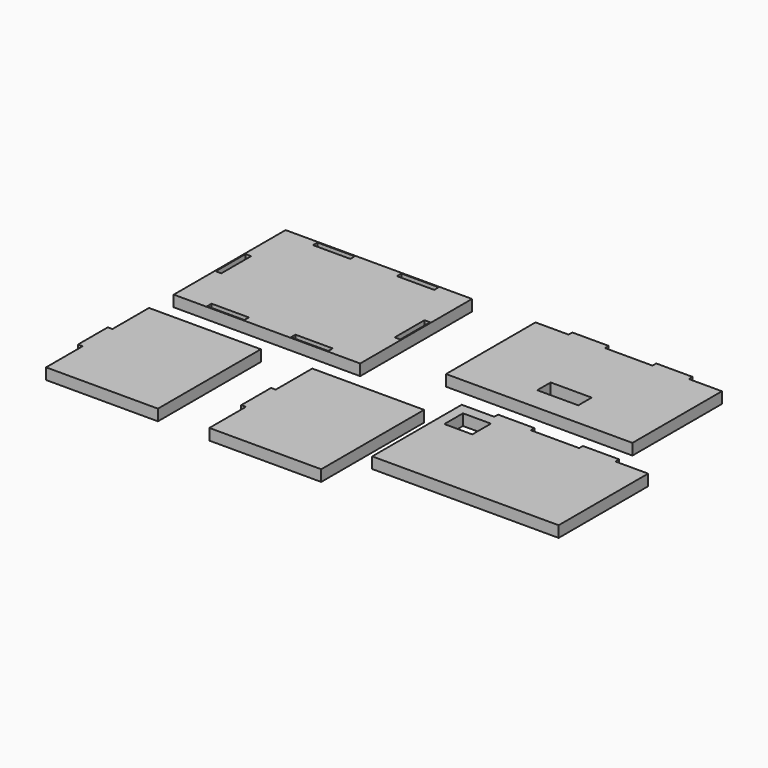
from build123d import *

# Parameters (mm, degrees)
F0_W     = 200
F0_H     = 150
F0_W_2   = 40
F0_H_2   = 6
F0_W_3   = 6
F0_H_3   = 40
F0_W_4   = 5
F0_W_5   = 30
F0_H_4   = 25
F0_W_6   = 44
F0_H_5   = 18
F0_W_7   = 39
F0_H_6   = 5
F1_DEPTH = 12


with BuildPart() as f1:
    # F0 (on Top) → F1 (new body)
    with BuildSketch(Plane.XY):
        Polygon((-35.514796, -58.678674), (-155.514796, -58.678674), (-155.514796, -107.678674), (-155.514796, -147.678674), (-155.514796, -196.678674), (-35.514796, -196.678674), align=None)
        with Locations((-54.403251, 48.133807)):
            Rectangle(F0_W, F0_H)
        with Locations((-99.403251, -22.866193)):
            Rectangle(F0_W_2, F0_H_2, mode=Mode.SUBTRACT)
        with Locations((-9.403251, -22.866193)):
            Rectangle(F0_W_2, F0_H_2, mode=Mode.SUBTRACT)
        with Locations((-150.403251, 48.133807)):
            Rectangle(F0_W_3, F0_H_3, mode=Mode.SUBTRACT)
        with Locations((-99.403251, 119.133807)):
            Rectangle(F0_W_2, F0_H_2, mode=Mode.SUBTRACT)
        with Locations((41.596749, 48.133807)):
            Rectangle(F0_W_3, F0_H_3, mode=Mode.SUBTRACT)
        with Locations((-9.403251, 119.133807)):
            Rectangle(F0_W_2, F0_H_2, mode=Mode.SUBTRACT)
        with Locations((-158.014796, -127.678674)):
            Rectangle(F0_W_4, F0_H_3)
        Polygon((193.767769, -32.147289), (158.767769, -32.147289), (158.767769, -152.147289), (358.767769, -152.147289), (358.767769, -32.147289), (323.767769, -32.147289), (284.767769, -32.147289), (232.767769, -32.147289), align=None)
        with Locations((184.307457, -56.138965)):
            Rectangle(F0_W_5, F0_H_4, mode=Mode.SUBTRACT)
        Polygon((149.202998, 123.133807), (113.702998, 123.133807), (113.702998, 3.133807), (313.702998, 3.133807), (313.702998, 123.133807), (278.202998, 123.133807), (239.202998, 123.133807), (188.202998, 123.133807), align=None)
        with Locations((213.702998, 36.976401)):
            Rectangle(F0_W_6, F0_H_5, mode=Mode.SUBTRACT)
        Polygon((139.982097, -59.087353), (19.982097, -59.087353), (19.982097, -108.087353), (19.982097, -148.087353), (19.982097, -197.087353), (139.982097, -197.087353), align=None)
        with Locations((17.482097, -128.087353)):
            Rectangle(F0_W_4, F0_H_3)
        with Locations((304.267769, -29.647289)):
            Rectangle(F0_W_7, F0_H_6)
        with Locations((213.267769, -29.647289)):
            Rectangle(F0_W_7, F0_H_6)
        with Locations((168.702998, 125.633807)):
            Rectangle(F0_W_7, F0_H_6)
        with Locations((258.702998, 125.633807)):
            Rectangle(F0_W_7, F0_H_6)
    extrude(amount=F1_DEPTH)


solid = f1.part
